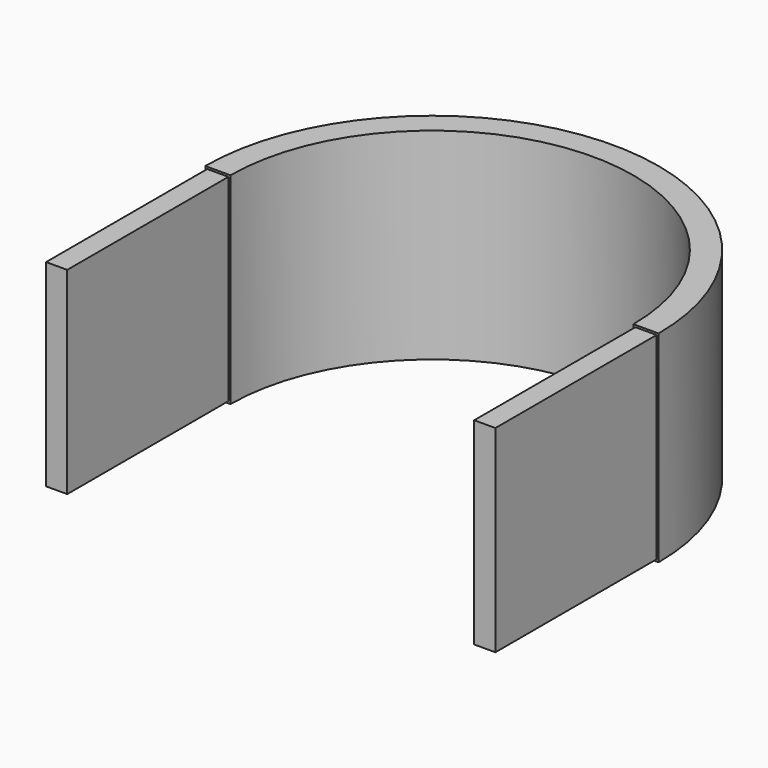
from build123d import *

# Parameters (mm, degrees)
F1_DEPTH = 25.4
F2_W     = 0.254
F2_H     = 25.4
F4_W     = 0.254
F4_H     = 25.4


with BuildPart() as f1:
    # F0 (on Top) → F1 (new body)
    with BuildSketch(Plane.XY):
        with BuildLine():
            Line((-3.175, 0), (0, 0))
            Line((0, 0), (0, 25.4))
            ThreePointArc((0, 25.4), (25.4, 50.8), (50.8, 25.4))
            Line((50.8, 25.4), (50.8, 0))
            Line((50.8, 0), (53.975, 0))
            Line((53.975, 0), (53.975, 25.4))
            ThreePointArc((53.975, 25.4), (25.4, 53.975), (-3.175, 25.4))
            Line((-3.175, 25.4), (-3.175, 0))
        make_face()
    extrude(amount=F1_DEPTH)

    # F3: sweep along a path in F3_path
    with BuildLine(Plane(origin=(-3.175, 0, 25.4), x_dir=(0, 0, -1), z_dir=(0, 1, 0))) as f3_path:
        Line((0, 0), (25.4, 0))
        Line((25.4, 0), (25.4, -3.175))
        Line((25.4, -3.175), (0, -3.175))
        Line((0, -3.175), (0, 0))
    # F2 (on face) → F3 (sweep, cut)
    with BuildSketch(Plane.XY.offset(25.4)):
        with Locations((-3.048, 12.7)):
            Rectangle(F2_W, F2_H)
    sweep(path=f3_path.line, transition=Transition.RIGHT, mode=Mode.SUBTRACT)

    # F5: sweep along a path in F5_path
    with BuildLine(Plane(origin=(50.8, 0, 0), x_dir=(0, 0, 1), z_dir=(0, -1, 0))) as f5_path:
        Line((0, 0), (25.4, 0))
        Line((25.4, 0), (25.4, -3.175))
        Line((25.4, -3.175), (0, -3.175))
        Line((0, -3.175), (0, 0))
    # F4 (on face) → F5 (sweep, cut)
    with BuildSketch(Plane.XY.offset(25.4)):
        with Locations((50.927, 12.7)):
            Rectangle(F4_W, F4_H)
    sweep(path=f5_path.line, transition=Transition.RIGHT, mode=Mode.SUBTRACT)


solid = f1.part
